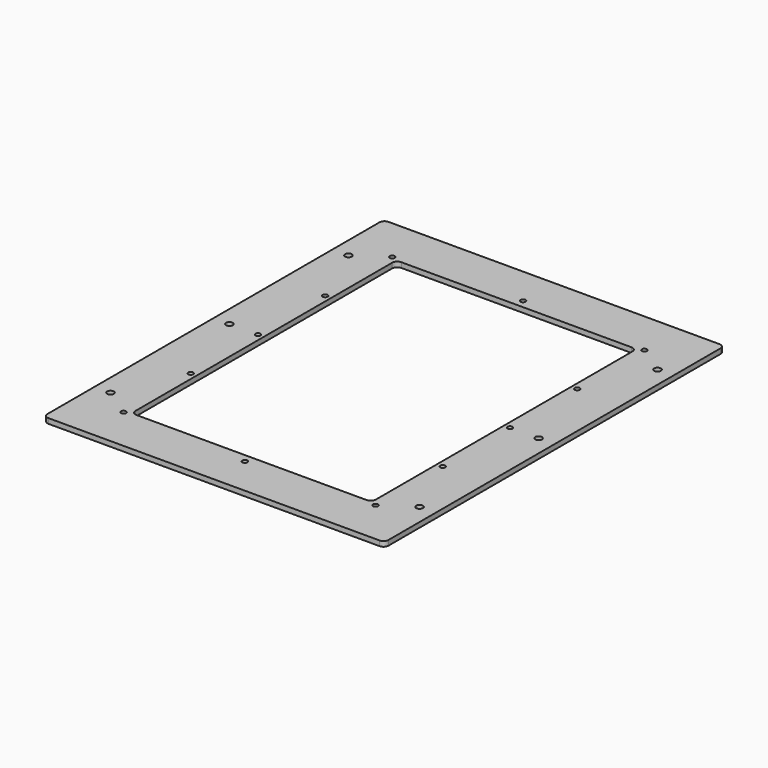
from build123d import *

# Parameters (mm, degrees)
F1_DEPTH = 3
F2_R     = 2
F3_DEPTH = 25
F4_R     = 1.5
F5_DEPTH = 25


with BuildPart() as f1:
    # F0 (on Top) → F1 (new body)
    with BuildSketch(Plane.XY):
        with BuildLine():
            Line((80.619057, -25.905496), (-116.380943, -25.905496))
            ThreePointArc((-116.380943, -25.905496), (-118.502264, -26.784176), (-119.380943, -28.905496))
            Line((-119.380943, -28.905496), (-119.380943, -275.905496))
            ThreePointArc((-119.380943, -275.905496), (-118.502264, -278.026816), (-116.380943, -278.905496))
            Line((-116.380943, -278.905496), (80.619057, -278.905496))
            ThreePointArc((80.619057, -278.905496), (82.740377, -278.026816), (83.619057, -275.905496))
            Line((83.619057, -275.905496), (83.619057, -28.905496))
            ThreePointArc((83.619057, -28.905496), (82.740377, -26.784176), (80.619057, -25.905496))
        make_face()
        with BuildLine():
            ThreePointArc((-89.380943, -56.905496), (-88.502264, -54.784176), (-86.380943, -53.905496))
            Line((-86.380943, -53.905496), (50.619057, -53.905496))
            ThreePointArc((50.619057, -53.905496), (52.740377, -54.784176), (53.619057, -56.905496))
            Line((53.619057, -56.905496), (53.619057, -247.905496))
            ThreePointArc((53.619057, -247.905496), (52.740377, -250.026816), (50.619057, -250.905496))
            Line((50.619057, -250.905496), (-86.380943, -250.905496))
            ThreePointArc((-86.380943, -250.905496), (-88.502264, -250.026816), (-89.380943, -247.905496))
            Line((-89.380943, -247.905496), (-89.380943, -56.905496))
        make_face(mode=Mode.SUBTRACT)
    extrude(amount=F1_DEPTH)

    # F2 (on face) → F3 (cut)
    with BuildSketch(Plane.XY.offset(3)):
        with Locations((-109.880943, -63.905496)):
            Circle(F2_R)
        with Locations((74.119057, -63.905496)):
            Circle(F2_R)
        with Locations((74.119057, -152.405496)):
            Circle(F2_R)
        with Locations((74.119057, -240.905496)):
            Circle(F2_R)
        with Locations((-109.880943, -240.905496)):
            Circle(F2_R)
        with Locations((-109.880943, -152.405496)):
            Circle(F2_R)
    extrude(amount=-F3_DEPTH, mode=Mode.SUBTRACT)

    # F4 (on face) → F5 (cut)
    with BuildSketch(Plane.XY.offset(3)):
        with Locations((-92.880943, -52.405496)):
            Circle(F4_R)
        with BuildLine():
            ThreePointArc((-17.880943, -50.405496), (-16.820283, -49.966156), (-16.380943, -48.905496))
            ThreePointArc((-16.380943, -48.905496), (-18.941603, -47.844836), (-17.880943, -50.405496))
        make_face()
        with Locations((57.119057, -52.405496)):
            Circle(F4_R)
        with Locations((57.119057, -102.405496)):
            Circle(F4_R)
        with Locations((-92.880943, -102.405496)):
            Circle(F4_R)
        with Locations((57.119057, -152.405496)):
            Circle(F4_R)
        with Locations((-92.880943, -152.405496)):
            Circle(F4_R)
        with Locations((-92.880943, -202.405496)):
            Circle(F4_R)
        with Locations((57.119057, -202.405496)):
            Circle(F4_R)
        with Locations((-92.880943, -252.405496)):
            Circle(F4_R)
        with BuildLine():
            ThreePointArc((-17.880943, -254.405496), (-18.941603, -256.966156), (-16.380943, -255.905496))
            ThreePointArc((-16.380943, -255.905496), (-16.820283, -254.844836), (-17.880943, -254.405496))
        make_face()
        with Locations((57.119057, -252.405496)):
            Circle(F4_R)
    extrude(amount=-F5_DEPTH, mode=Mode.SUBTRACT)


solid = f1.part
